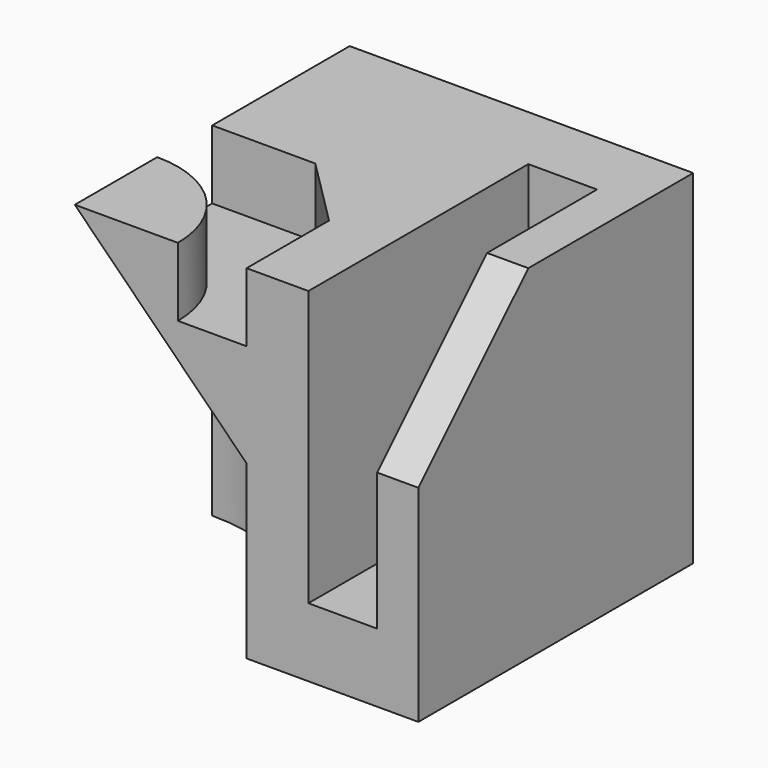
from build123d import *

# Parameters (mm, degrees)
F0_W      = 50
F0_H      = 50
F1_DEPTH  = 50
F3_DEPTH  = 6
F5_DEPTH  = 40
F6_R      = 10
F8_DEPTH  = 10
F10_DEPTH = 25


with BuildPart() as f1:
    # F0 (on Front) → F1 (new body)
    with BuildSketch(Plane.XZ):
        with Locations((25, 25)):
            Rectangle(F0_W, F0_H)
    extrude(amount=F1_DEPTH)

    # F2 (on face) → F3 (cut)
    with BuildSketch(Plane.YZ.offset(50)):
        Polygon((-30, 50), (-50, 50), (-50, 30), align=None)
    extrude(amount=-F3_DEPTH, mode=Mode.SUBTRACT)

    # F4 (on face) → F5 (cut)
    with BuildSketch(Plane.XZ.offset(50)):
        Polygon((44, 30), (44, 50), (34, 50), (34, 10), (44, 10), align=None)
    extrude(amount=-F5_DEPTH, mode=Mode.SUBTRACT)

    # F6
    f6_edges = [f1.edges().sort_by_distance(p)[0] for p in [
        (39, -10, 10),
    ]]
    fillet(f6_edges, radius=F6_R)

    # F7 (on face) → F8 (cut)
    with BuildSketch(Plane.XY.offset(50)):
        with BuildLine():
            ThreePointArc((0, -35), (10.6066017178, -39.3933982822), (15, -50))
            Line((15, -50), (25, -50))
            Line((25, -50), (25, -35))
            Line((25, -35), (15, -25))
            Line((15, -25), (0, -25))
            Line((0, -25), (0, -35))
        make_face()
    extrude(amount=-F8_DEPTH, mode=Mode.SUBTRACT)

    # F9 (on face) → F10 (cut)
    with BuildSketch(Plane(origin=(0, 0, 0), x_dir=(1, 0, 0), z_dir=(0, 0, -1))):
        with BuildLine():
            ThreePointArc((0, 25), (17.6776695297, 32.3223304703), (25, 50))
            Line((25, 50), (0, 50))
            Line((0, 50), (0, 25))
        make_face()
    extrude(amount=-F10_DEPTH, mode=Mode.SUBTRACT)

    # F12 (on face) + F13 (on face) → F14 (revolve, cut)
    with BuildSketch(Plane.XZ.offset(50)):
        Polygon((25, 25), (0, 50), (0, 25), align=None)
    with BuildSketch(Plane(origin=(0, 0, 0), x_dir=(0, -1, 0), z_dir=(-1, 0, 0))):
        Polygon((50, 25), (50, 50), (25, 25), align=None)
    revolve(axis=Axis((0, -50, 25), (0, 0, -1)), mode=Mode.SUBTRACT)


solid = f1.part
